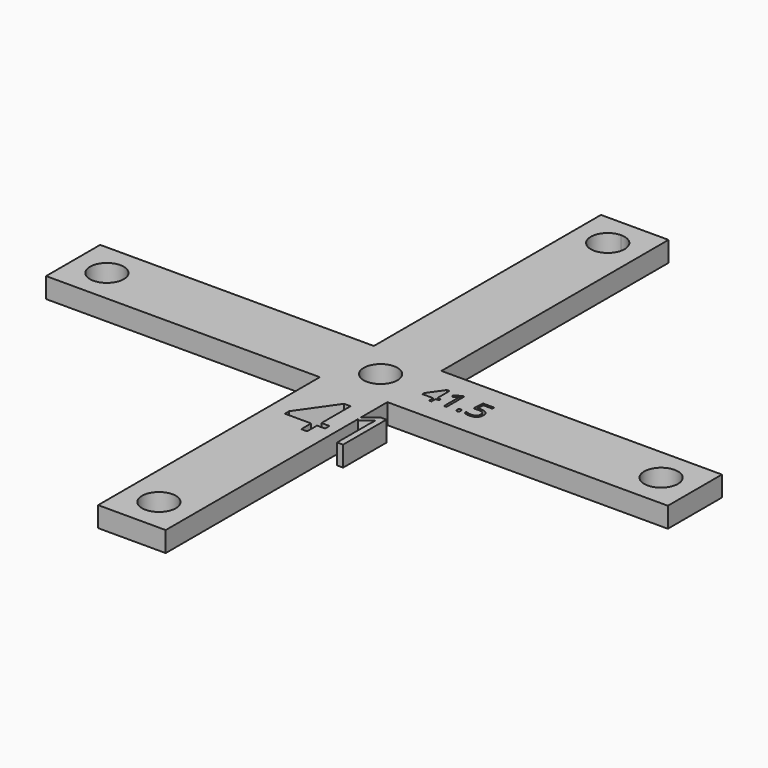
from build123d import *

# Parameters (mm, degrees)
F0_R     = 2.5
F1_DEPTH = 3


with BuildPart() as f1:
    # F0 (on Top) → F1 (new body)
    with BuildSketch(Plane.XY):
        Polygon((5, 47), (0, 47), (-5, 47), (-5, 5), (-45.5, 5), (-45.5, 0), (-45.5, -5), (-5, -5), (-5, -46), (0, -46), (5, -46), (5, -10.4356960682), (4.7629147731, -10.1287784653), (5, -9.9454247125), (5, -5), (46.5, -5), (46.5, 0), (46.5, 5), (5, 5), align=None)
        with BuildLine():
            ThreePointArc((2.5, -41), (1.767766953, -42.767766953), (0, -43.5))
            ThreePointArc((0, -43.5), (-1.767766953, -39.232233047), (2.5, -41))
        make_face(mode=Mode.SUBTRACT)
        with BuildLine():
            ThreePointArc((-38, 0), (-40.5, -2.5), (-43, 0))
            ThreePointArc((-43, 0), (-40.5, 2.5), (-38, 0))
        make_face(mode=Mode.SUBTRACT)
        with BuildLine():
            ThreePointArc((2.5, 0), (-2.3096988313, -0.9567085809), (1.767766953, 1.767766953))
            ThreePointArc((1.767766953, 1.767766953), (2.3096988313, 0.9567085809), (2.5, 0))
        make_face(mode=Mode.SUBTRACT)
        Polygon((3.5076020164, -13.8316004514), (3.5076020164, -14.659125062), (2.3189120038, -14.659125062), (2.3189120038, -16.5000166744), (1.4475566406, -16.5000166744), (1.4475566406, -14.659125062), (-2.4481206573, -14.659125062), (-2.4481206573, -13.8649118235), (1.3546354449, -8.4456775625), (2.3189120038, -8.4456775625), (2.3189120038, -13.8316004514), align=None, mode=Mode.SUBTRACT)
        Polygon((9.3614297288, -0.567920358), (9.3614297288, -0.9107060472), (8.869038421, -0.9107060472), (8.869038421, -1.6732589575), (8.5080967101, -1.6732589575), (8.5080967101, -0.9107060472), (6.8943895038, -0.9107060472), (6.8943895038, -0.5817189344), (8.4696059442, 1.6630915853), (8.869038421, 1.6630915853), (8.869038421, -0.567920358), align=None, mode=Mode.SUBTRACT)
        with BuildLine():
            Line((11.0768106565, 1.6449355636), (11.0768106565, -1.6732589575))
            Line((11.0768106565, -1.6732589575), (10.7093327779, -1.6732589575))
            Line((10.7093327779, -1.6732589575), (10.7093327779, 0.6913813053))
            add(Edge.make_bspline(
                [(10.7093327779, 0.6913813053), (10.7093327779, 0.9869613382), (10.7274887995, 1.249860532)],
                knots=[0, 0, 0, 1, 1, 1], degree=2))
            add(Edge.make_bspline(
                [(10.7274887995, 1.249860532), (10.6802831432, 1.2019286348), (10.6210945125, 1.1500024128)],
                knots=[0, 0, 0, 1, 1, 1], degree=2))
            add(Edge.make_bspline(
                [(10.6210945125, 1.1500024128), (10.5619058819, 1.0980761908), (10.0811344279, 0.7073586044)],
                knots=[0, 0, 0, 1, 1, 1], degree=2))
            Line((10.0811344279, 0.7073586044), (9.8814181895, 0.965900353))
            Line((9.8814181895, 0.965900353), (10.7594433977, 1.6449355636))
            Line((10.7594433977, 1.6449355636), (11.0768106565, 1.6449355636))
        make_face(mode=Mode.SUBTRACT)
        with BuildLine():
            add(Edge.make_bspline(
                [(12.5325604743, -1.667812151), (12.4566683037, -1.5962774256), (12.4566683037, -1.4328732305)],
                knots=[0, 0, 0, 1, 1, 1], degree=2))
            add(Edge.make_bspline(
                [(12.4566683037, -1.4328732305), (12.4566683037, -1.2803626484), (12.5260243065, -1.2022917552)],
                knots=[0, 0, 0, 1, 1, 1], degree=2))
            add(Edge.make_bspline(
                [(12.5260243065, -1.2022917552), (12.5953803093, -1.124220862), (12.7246511836, -1.124220862)],
                knots=[0, 0, 0, 1, 1, 1], degree=2))
            add(Edge.make_bspline(
                [(12.7246511836, -1.124220862), (12.8561007806, -1.124220862), (12.9298142286, -1.2022917552)],
                knots=[0, 0, 0, 1, 1, 1], degree=2))
            add(Edge.make_bspline(
                [(12.9298142286, -1.2022917552), (13.0035276766, -1.2803626484), (13.0035276766, -1.4328732305)],
                knots=[0, 0, 0, 1, 1, 1], degree=2))
            add(Edge.make_bspline(
                [(13.0035276766, -1.4328732305), (13.0035276766, -1.5803001265), (12.9287248673, -1.6598235014)],
                knots=[0, 0, 0, 1, 1, 1], degree=2))
            add(Edge.make_bspline(
                [(12.9287248673, -1.6598235014), (12.853922058, -1.7393468763), (12.7246511836, -1.7393468763)],
                knots=[0, 0, 0, 1, 1, 1], degree=2))
            add(Edge.make_bspline(
                [(12.7246511836, -1.7393468763), (12.6084526449, -1.7393468763), (12.5325604743, -1.667812151)],
                knots=[0, 0, 0, 1, 1, 1], degree=2))
        make_face(mode=Mode.SUBTRACT)
        with BuildLine():
            add(Edge.make_bspline(
                [(14.092888977, 0.3013899598), (14.3536094482, 0.3536793022), (14.6128774377, 0.3536793022)],
                knots=[0, 0, 0, 1, 1, 1], degree=2))
            add(Edge.make_bspline(
                [(14.6128774377, 0.3536793022), (15.1372233437, 0.3536793022), (15.4378870626, 0.0936850718)],
                knots=[0, 0, 0, 1, 1, 1], degree=2))
            add(Edge.make_bspline(
                [(15.4378870626, 0.0936850718), (15.7385507815, -0.1663091585), (15.7385507815, -0.6180309778)],
                knots=[0, 0, 0, 1, 1, 1], degree=2))
            add(Edge.make_bspline(
                [(15.7385507815, -0.6180309778), (15.7385507815, -1.1329357524), (15.4106530301, -1.4259739423)],
                knots=[0, 0, 0, 1, 1, 1], degree=2))
            add(Edge.make_bspline(
                [(15.4106530301, -1.4259739423), (15.0827552786, -1.7190121321), (14.5061200303, -1.7190121321)],
                knots=[0, 0, 0, 1, 1, 1], degree=2))
            add(Edge.make_bspline(
                [(14.5061200303, -1.7190121321), (13.945462081, -1.7190121321), (13.650608289, -1.5396306379)],
                knots=[0, 0, 0, 1, 1, 1], degree=2))
            Line((13.650608289, -1.5396306379), (13.650608289, -1.1765102045))
            add(Edge.make_bspline(
                [(13.650608289, -1.1765102045), (13.808928798, -1.2781839258), (14.0449570798, -1.3362831952)],
                knots=[0, 0, 0, 1, 1, 1], degree=2))
            add(Edge.make_bspline(
                [(14.0449570798, -1.3362831952), (14.2809853615, -1.3943824645), (14.5104774755, -1.3943824645)],
                knots=[0, 0, 0, 1, 1, 1], degree=2))
            add(Edge.make_bspline(
                [(14.5104774755, -1.3943824645), (14.9099099523, -1.3943824645), (15.1310502963, -1.2059229596)],
                knots=[0, 0, 0, 1, 1, 1], degree=2))
            add(Edge.make_bspline(
                [(15.1310502963, -1.2059229596), (15.3521906403, -1.0174634546), (15.3521906403, -0.6608791889)],
                knots=[0, 0, 0, 1, 1, 1], degree=2))
            add(Edge.make_bspline(
                [(15.3521906403, -0.6608791889), (15.3521906403, 0.0334070799), (14.5017625851, 0.0334070799)],
                knots=[0, 0, 0, 1, 1, 1], degree=2))
            add(Edge.make_bspline(
                [(14.5017625851, 0.0334070799), (14.2860690476, 0.0334070799), (13.9251273367, -0.032680839)],
                knots=[0, 0, 0, 1, 1, 1], degree=2))
            Line((13.9251273367, -0.032680839), (13.7297685435, 0.0922325901))
            Line((13.7297685435, 0.0922325901), (13.8546819726, 1.6449355636))
            Line((13.8546819726, 1.6449355636), (15.5047012223, 1.6449355636))
            Line((15.5047012223, 1.6449355636), (15.5047012223, 1.2977924292))
            Line((15.5047012223, 1.2977924292), (14.1771329175, 1.2977924292))
            Line((14.1771329175, 1.2977924292), (14.092888977, 0.3013899598))
        make_face(mode=Mode.SUBTRACT)
        with Locations((41.5, 0)):
            Circle(F0_R, mode=Mode.SUBTRACT)
        with BuildLine():
            ThreePointArc((0, 44.5), (1.767766953, 43.767766953), (2.5, 42))
            ThreePointArc((2.5, 42), (-1.767766953, 40.232233047), (0, 44.5))
        make_face(mode=Mode.SUBTRACT)
        with BuildLine():
            Line((6.8825699725, -8.4895083152), (5, -9.9454247125))
            Line((5, -9.9454247125), (5, -10.4356960682))
            Line((5, -10.4356960682), (5.2450530525, -10.7529283834))
            add(Edge.make_bspline(
                [(6.5485796371, -9.6843346332), (6.4056913834, -9.8096905858), (5.2450530525, -10.7529283834)],
                knots=[0, 0, 0, 1, 1, 1], degree=2))
            add(Edge.make_bspline(
                [(6.8054278478, -9.4432654934), (6.6914678909, -9.5589786805), (6.5485796371, -9.6843346332)],
                knots=[0, 0, 0, 1, 1, 1], degree=2))
            add(Edge.make_bspline(
                [(6.7615970951, -10.7914994458), (6.7615970951, -10.0779347922), (6.8054278478, -9.4432654934)],
                knots=[0, 0, 0, 1, 1, 1], degree=2))
            Line((6.7615970951, -10.7914994458), (6.7615970951, -16.5000166744))
            Line((6.7615970951, -16.5000166744), (7.6487315293, -16.5000166744))
            Line((7.6487315293, -16.5000166744), (7.6487315293, -8.4895083152))
            Line((7.6487315293, -8.4895083152), (6.8825699725, -8.4895083152))
        make_face()
        Polygon((5, -10.4356960682), (5, -9.9454247125), (4.7629147731, -10.1287784653), align=None)
    extrude(amount=F1_DEPTH)


solid = f1.part
